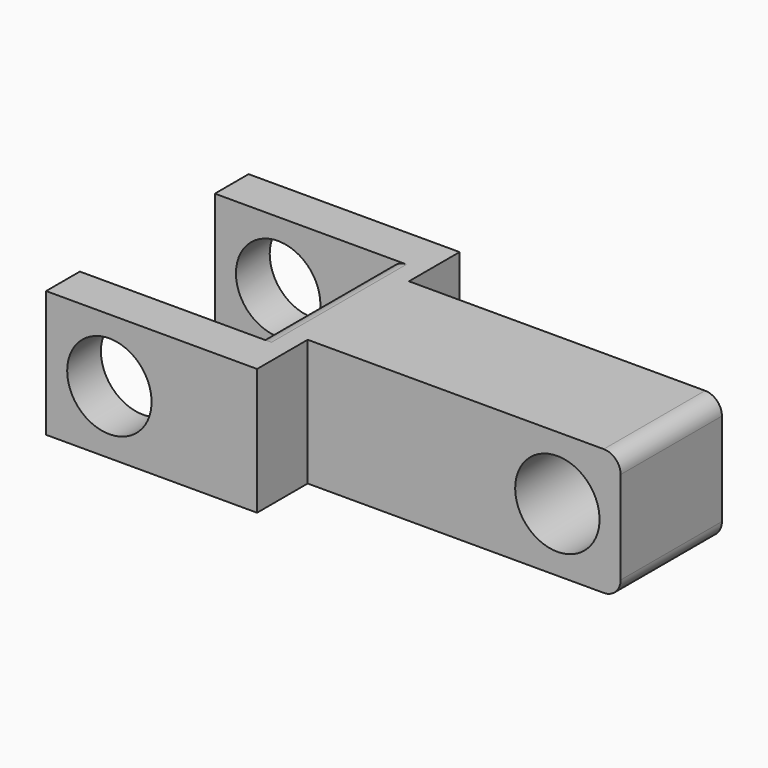
from build123d import *

# Parameters (mm, degrees)
F1_DEPTH = 19.05
F3_D     = 12.7
F5_D     = 12.7
F6_R     = 2.54


with BuildPart() as f1:
    # F0 (on Top) → F1 (new body)
    with BuildSketch(Plane.XY):
        Polygon((45.404016, -4.03813), (-1.694917, -4.03813), (-1.694917, 5.48687), (-33.444917, 5.48687), (-33.444917, -0.86313), (-7.148128, -0.86313), (-7.148128, -26.26313), (-33.444917, -26.26313), (-33.444917, -32.61313), (-1.694917, -32.61313), (-1.694917, -23.08813), (45.404016, -23.08813), align=None)
    extrude(amount=F1_DEPTH)

    # F3 (through all)
    with Locations(Plane.XZ.offset(32.61313)):
        with Locations((-23.919917, 9.525)):
            Hole(F3_D / 2)

    # F5 (through all)
    with Locations(Plane.XZ.offset(23.08813)):
        with Locations((35.879016, 9.525)):
            Hole(F5_D / 2)

    # F6
    f6_edges = [f1.edges().sort_by_distance(p)[0] for p in [
        (45.404016, -13.56313, 19.05),
        (45.404016, -13.56313, 0),
        (-7.148128, -13.56313, 19.05),
        (-7.148128, -13.56313, 0),
    ]]
    fillet(f6_edges, radius=F6_R)


solid = f1.part
